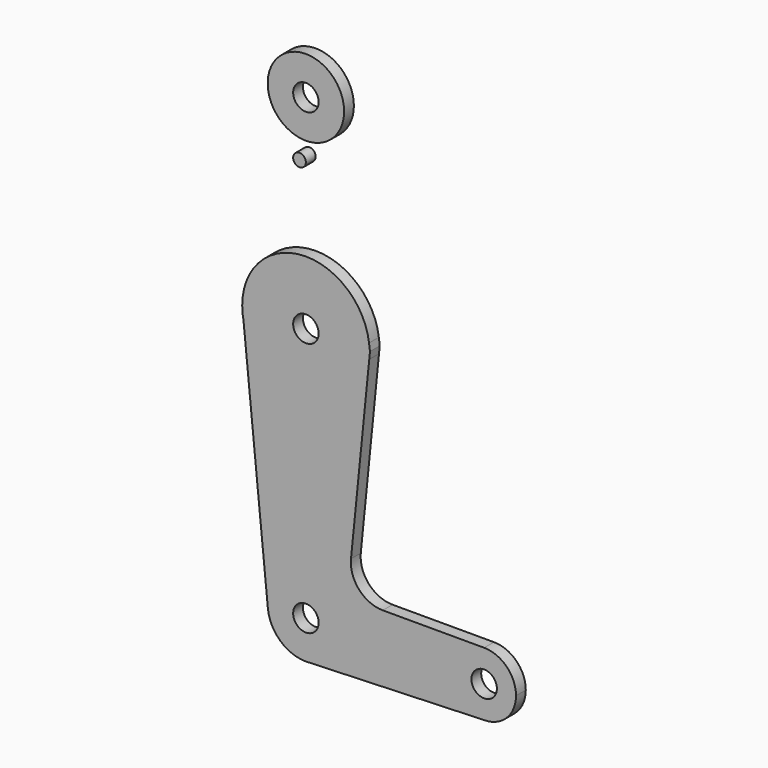
from build123d import *

# Parameters (mm, degrees)
F0_R     = 3.175
F0_R_2   = 1.5875
F1_DEPTH = 3.048


with BuildPart() as f1:
    # F0 (on Front) → F1 (new body)
    with BuildSketch(Plane.XZ):
        with BuildLine():
            ThreePointArc((0.67949, -9.500732), (6.97129, -6.490511), (9.525, 0))
            ThreePointArc((9.525, 0), (-0.471004, 9.513348), (-9.478419, -0.940855))
            ThreePointArc((-9.478419, -0.940855), (-6.393903, -7.060002), (0, -9.525))
            Line((0, -9.525), (0.67949, -9.500732))
        make_face()
        Circle(F0_R, mode=Mode.SUBTRACT)
        with BuildLine():
            ThreePointArc((-9.478419, -0.940855), (-0.471004, 9.513348), (9.525, 0))
            ThreePointArc((9.525, 0), (6.97129, -6.490511), (0.67949, -9.500732))
            Line((0.67949, -9.500732), (44.45, -7.9375))
            ThreePointArc((44.45, -7.9375), (36.5125, 0), (44.45, 7.9375))
            Line((44.45, 7.9375), (19.160011, 7.9375))
            ThreePointArc((19.160011, 7.9375), (13.263985, 10.554544), (11.249662, 16.68272))
            Line((11.249662, 16.68272), (15.795426, 61.9125))
            ThreePointArc((15.795426, 61.9125), (0.775265, 47.643942), (-15.565216, 60.379155))
            Line((-15.565216, 60.379155), (-9.478419, -0.940855))
        make_face()
        with BuildLine():
            ThreePointArc((-9.525, 114.3), (0, 104.775), (9.525, 114.3))
            ThreePointArc((9.525, 114.3), (0, 123.825), (-9.525, 114.3))
        make_face()
        with Locations((0, 114.3)):
            Circle(F0_R, mode=Mode.SUBTRACT)
        with BuildLine():
            ThreePointArc((0, -9.525), (0.339962, -9.518931), (0.67949, -9.500732))
            Line((0.67949, -9.500732), (0, -9.525))
        make_face()
        with BuildLine():
            Line((-15.875, 63.5), (-15.565216, 60.379155))
            ThreePointArc((-15.565216, 60.379155), (0.775265, 47.643942), (15.795426, 61.9125))
            ThreePointArc((15.795426, 61.9125), (15.855094, 62.705253), (15.875, 63.5))
            ThreePointArc((15.875, 63.5), (15.843082, 64.506168), (15.747457, 65.508289))
            ThreePointArc((15.747457, 65.508289), (-1.006168, 79.343082), (-15.875, 63.5))
        make_face()
        with Locations((0, 63.5)):
            Circle(F0_R, mode=Mode.SUBTRACT)
        with BuildLine():
            ThreePointArc((-15.875, 63.5), (-15.797364, 61.931909), (-15.565216, 60.379155))
            Line((-15.565216, 60.379155), (-15.875, 63.5))
        make_face()
        with BuildLine():
            ThreePointArc((44.45, 7.9375), (36.5125, 0), (44.45, -7.9375))
            ThreePointArc((44.45, -7.9375), (50.06266, -5.61266), (52.3875, 0))
            ThreePointArc((52.3875, 0), (50.06266, 5.61266), (44.45, 7.9375))
        make_face()
        with Locations((44.45, 0)):
            Circle(F0_R, mode=Mode.SUBTRACT)
        with BuildLine():
            ThreePointArc((15.875, 63.5), (15.855094, 62.705253), (15.795426, 61.9125))
            Line((15.795426, 61.9125), (15.976396, 63.713129))
            Line((15.976396, 63.713129), (15.747457, 65.508289))
            ThreePointArc((15.747457, 65.508289), (15.843082, 64.506168), (15.875, 63.5))
        make_face()
        with Locations((-1.5875, 100.0252)):
            Circle(F0_R_2)
    extrude(amount=F1_DEPTH)


solid = f1.part
